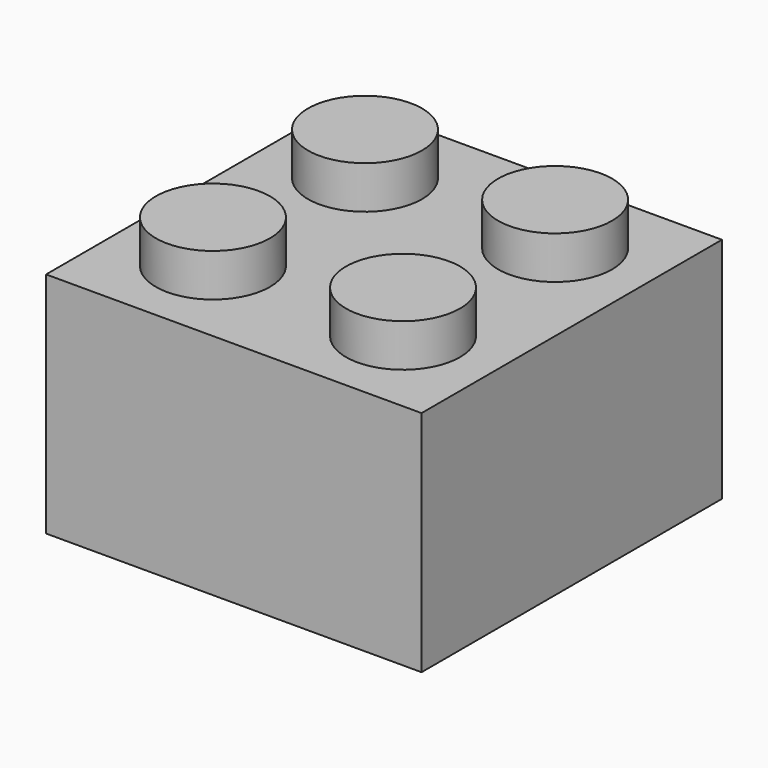
from build123d import *

# Parameters (mm, degrees)
F0_W     = 15.8
F0_H     = 15.8
F1_DEPTH = 9.6
F2_R     = 2.4
F3_DEPTH = 1.8
F4_T     = -1
F5_R     = 3.255
F5_R_2   = 2.4
F6_DEPTH = 8.6


with BuildPart() as f1:
    # F0 (on Top) → F1 (new body)
    with BuildSketch(Plane.XY):
        Rectangle(F0_W, F0_H)
    extrude(amount=F1_DEPTH)

    # F2 (on face) → F3 (join)
    with BuildSketch(Plane.XY.offset(9.6)):
        with Locations((-4, 4)):
            Circle(F2_R)
        with Locations((4, 4)):
            Circle(F2_R)
        with Locations((4, -4)):
            Circle(F2_R)
        with Locations((-4, -4)):
            Circle(F2_R)
    extrude(amount=F3_DEPTH)

    # F4
    f4_openings = [f1.faces().sort_by_distance(p)[0] for p in [
        (0, 0, 0),
    ]]
    offset(amount=F4_T, openings=f4_openings, kind=Kind.INTERSECTION)

    # F5 (on face) → F6 (join, through all)
    with BuildSketch(Plane(origin=(0, 0, 8.6), x_dir=(1, 0, 0), z_dir=(0, 0, -1))):
        Circle(F5_R)
        Circle(F5_R_2, mode=Mode.SUBTRACT)
    extrude(amount=F6_DEPTH)


solid = f1.part
